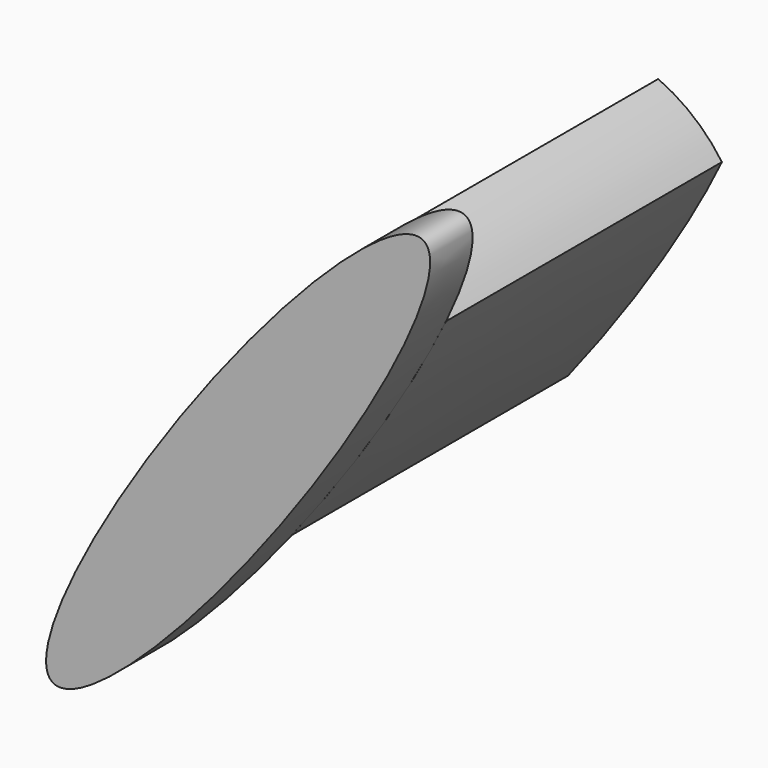
from build123d import *

# Parameters (mm, degrees)
F1_DEPTH = 25.4
F3_DEPTH = 165.000021


with BuildPart() as f1:
    # F0 (on Front) → F1 (new body)
    with BuildSketch(Plane.XZ):
        with BuildLine():
            add(Edge.make_bspline(
                [(89.01117, 121.70729), (49.51588, 150.592347), (-64.25323, -46.411117), (-178.02234, -243.414581), (-24.75794, -75.296173), (128.50646, 92.822234), (89.01117, 121.70729)],
                knots=[0, 0, 0, 2.094395, 2.094395, 4.18879, 4.18879, 6.283185, 6.283185, 6.283185], degree=2, weights=[1, 0.5, 1, 0.5, 1, 0.5, 1]))
        make_face()
    extrude(amount=F1_DEPTH)


with BuildPart() as f3:
    # F2 (on face) → F3 (new body)
    with BuildSketch(Plane(origin=(0, 0, 0), x_dir=(-1, 0, 0), z_dir=(0, 1, 0))):
        with BuildLine():
            add(Edge.make_bspline(
                [(-48.705663, 99.611261), (-5.043209, 59.324197), (41.029746, -9.318037)],
                knots=[0.786165, 0.786165, 0.786165, 1.746221, 1.746221, 1.746221], degree=2, weights=[0.765534, 0.708402, 0.861395]))
            ThreePointArc((-48.705663, 99.611261), (-65.668471, 89.162792), (-79.190518, 74.531947))
            add(Edge.make_bspline(
                [(-5.514226, -39.447803), (-54.368017, 22.518872), (-79.190518, 74.531947)],
                knots=[4.559128, 4.559128, 4.559128, 5.477273, 5.477273, 5.477273], degree=2, weights=[0.854443, 0.712768, 0.763272]))
            ThreePointArc((-5.514226, -39.447803), (20.717038, -28.954364), (41.029746, -9.318037))
        make_face()
    extrude(amount=F3_DEPTH)


solid = Compound([f1.part, f3.part])
